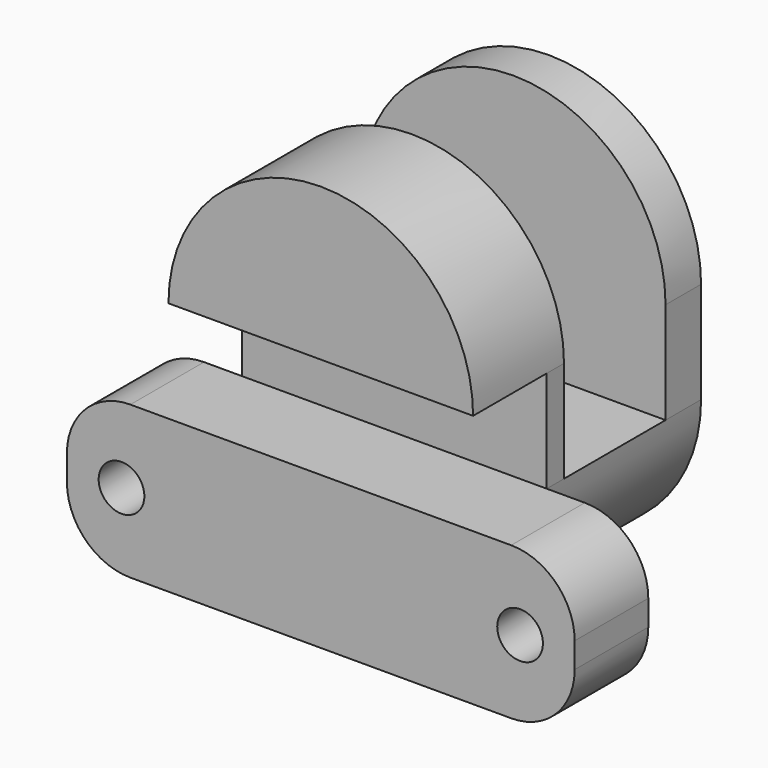
from build123d import *

# Parameters (mm, degrees)
F1_DEPTH = 7.25
F0_W     = 24
F0_H     = 8
F2_DEPTH = 1.7
F4_DEPTH = 10
F6_DEPTH = 3.5
F7_R     = 5
F9_D     = 3.6


with BuildPart() as f1:
    # F0 (on Front) → F1 (new body)
    with BuildSketch(Plane.XZ):
        with BuildLine():
            Line((20, 12), (12, 12))
            ThreePointArc((12, 12), (8.4852813844, 3.5147186359), (2.86e-08, 0))
            Line((2.86e-08, 0), (20, 0))
            Line((20, 0), (20, 12))
        make_face()
        with BuildLine():
            Line((12, 12), (-12, 12))
            ThreePointArc((-12, 12), (-8.4852813641, 3.5147186156), (2.86e-08, 0))
            ThreePointArc((2.86e-08, 0), (8.4852813844, 3.5147186359), (12, 12))
        make_face()
        with BuildLine():
            Line((-12, 12), (-20, 12))
            Line((-20, 12), (-20, 0))
            Line((-20, 0), (2.86e-08, 0))
            ThreePointArc((2.86e-08, 0), (-8.4852813641, 3.5147186156), (-12, 12))
        make_face()
    extrude(amount=F1_DEPTH)



with BuildPart() as f1b:
    # F0 (on Front) → F1, piece 2 (new body)
    with BuildSketch(Plane.XZ):
        with BuildLine():
            ThreePointArc((12, 20), (0, 32), (-12, 20))
            Line((-12, 20), (12, 20))
        make_face()
    extrude(amount=F1_DEPTH)


with BuildPart() as f1_1:
    add(f1.part)

    add(f1b.part)  # F2 merges F1b
    # F0 (on Front) → F2 (join)
    with BuildSketch(Plane.XZ):
        with BuildLine():
            ThreePointArc((12, 20), (0, 32), (-12, 20))
            Line((-12, 20), (12, 20))
        make_face()
        with Locations((0, 16)):
            Rectangle(F0_W, F0_H)
        with BuildLine():
            Line((12, 12), (-12, 12))
            ThreePointArc((-12, 12), (-8.4852813641, 3.5147186156), (2.86e-08, 0))
            ThreePointArc((2.86e-08, 0), (8.4852813844, 3.5147186359), (12, 12))
        make_face()
    extrude(amount=-F2_DEPTH)

    # F3 (on face) → F4 (join)
    with BuildSketch(Plane(origin=(0, 1.7, 0), x_dir=(-1, 0, 0), z_dir=(0, 1, 0))):
        with BuildLine():
            ThreePointArc((-12, 12), (0, 0), (12, 12))
            Line((12, 12), (-12, 12))
        make_face()
    extrude(amount=F4_DEPTH)

    # F5 (on face) → F6 (join)
    with BuildSketch(Plane(origin=(0, 11.7, 0), x_dir=(-1, 0, 0), z_dir=(0, 1, 0))):
        with BuildLine():
            ThreePointArc((12, 20), (0, 32), (-12, 20))
            Line((-12, 20), (-12, 12))
            ThreePointArc((-12, 12), (0, 0), (12, 12))
            Line((12, 12), (12, 20))
        make_face()
    extrude(amount=F6_DEPTH)

    # F7
    f7_edges = [f1_1.edges().sort_by_distance(p)[0] for p in [
        (-20, -3.625, 12),
        (-20, -3.625, 0),
        (20, -3.625, 12),
        (20, -3.625, 0),
    ]]
    fillet(f7_edges, radius=F7_R)

    # F9 (through all)
    with Locations(Plane(origin=(0, 0, 0), x_dir=(1, 0, 0), z_dir=(0, 1, 0))):
        with Locations((15.7, -6), (-15.7, -6)):
            Hole(F9_D / 2)


solid = f1_1.part
